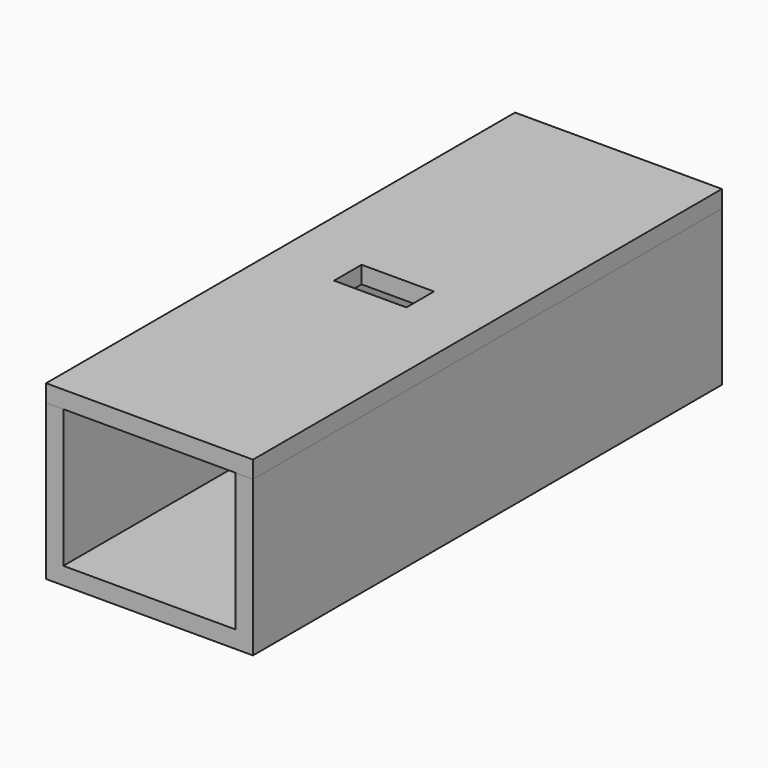
from build123d import *

# Parameters (mm, degrees)
F0_W     = 25.4
F0_H     = 2.54
F0_H_2   = 81.28
F1_DEPTH = 2.54
F2_DEPTH = 20.32
F3_START = 20.32
F3_DEPTH = 2.54
F4_W     = 10.668
F4_H     = 5.08
F5_DEPTH = 5.08


with BuildPart() as f1:
    # F0 (on Top) → F1 (new body)
    with BuildSketch(Plane.XY):
        Polygon((-12.7, 40.64), (12.7, 40.64), (12.7, -40.64), (12.7, -43.18), (15.24, -43.18), (15.24, 43.18), (-15.24, 43.18), (-15.24, -43.18), (-12.7, -43.18), (-12.7, -40.64), align=None)
        with Locations((0, -41.91)):
            Rectangle(F0_W, F0_H)
        Rectangle(F0_W, F0_H_2)
    extrude(amount=-F1_DEPTH)

    # F0 (on Top) → F2 (join)
    with BuildSketch(Plane.XY):
        Polygon((-12.7, 40.64), (12.7, 40.64), (12.7, -40.64), (12.7, -43.18), (15.24, -43.18), (15.24, 43.18), (-15.24, 43.18), (-15.24, -43.18), (-12.7, -43.18), (-12.7, -40.64), align=None)
    extrude(amount=F2_DEPTH)


with BuildPart() as f3:
    # F0 (on Top) → F3 (new body)
    with BuildSketch(Plane.XY.offset(F3_START)):
        Rectangle(F0_W, F0_H_2)
        Polygon((-12.7, 40.64), (12.7, 40.64), (12.7, -40.64), (12.7, -43.18), (15.24, -43.18), (15.24, 43.18), (-15.24, 43.18), (-15.24, -43.18), (-12.7, -43.18), (-12.7, -40.64), align=None)
        with Locations((0, -41.91)):
            Rectangle(F0_W, F0_H)
    extrude(amount=F3_DEPTH)

    # F4 (on face) → F5 (cut)
    with BuildSketch(Plane.XY.offset(22.86)):
        Rectangle(F4_W, F4_H)
    extrude(amount=-F5_DEPTH, mode=Mode.SUBTRACT)


solid = Compound([f1.part, f3.part])
